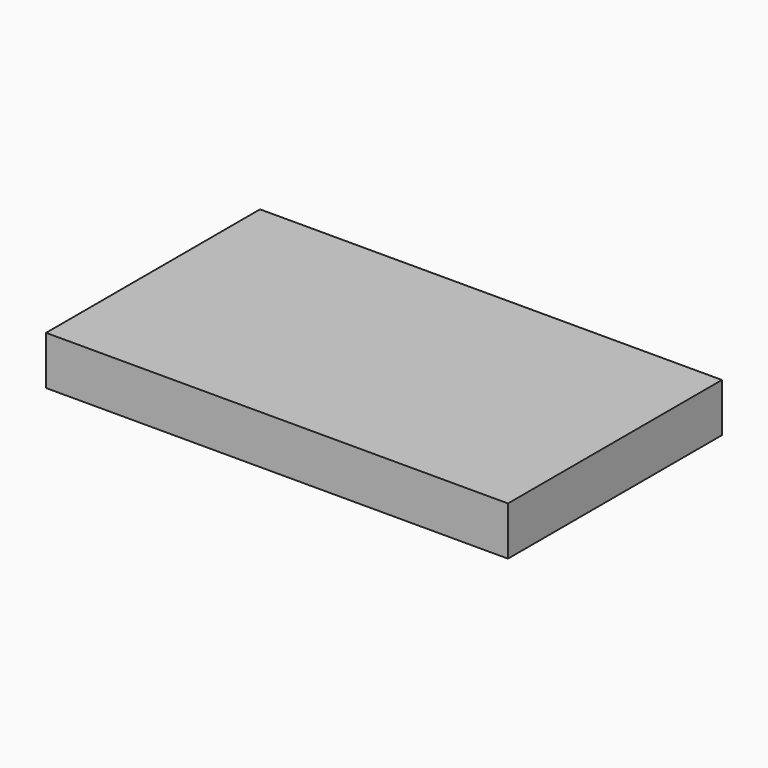
from build123d import *

# Parameters (mm, degrees)
BOX_W        = 51
BOX_H        = 10.2
BOX_DEPTH    = 10
BOX001_W     = 51
BOX001_H     = 13.2
BOX001_DEPTH = 10
BOX002_W     = 57
BOX002_H     = 33
BOX002_DEPTH = 6


with BuildPart() as cube:
    # Box → Box (new body)
    with BuildSketch(Plane.XY.offset(-7)):
        with Locations((25.5, 5.1)):
            Rectangle(BOX_W, BOX_H)
    extrude(amount=BOX_DEPTH)


with BuildPart() as fusion:
    # Box001 → Box001 (new body)
    with BuildSketch(Plane(origin=(0, -17.2, -7), x_dir=(1, 0, 0), z_dir=(0, 0, 1))):
        with Locations((25.5, 6.6)):
            Rectangle(BOX001_W, BOX001_H)
    extrude(amount=BOX001_DEPTH)

    # Fusion: union Cube
    add(cube.part)


with BuildPart() as cut:
    # Box002 → Box002 (new body)
    with BuildSketch(Plane(origin=(-3, -20, 0), x_dir=(1, 0, 0), z_dir=(0, 0, 1))):
        with Locations((28.5, 16.5)):
            Rectangle(BOX002_W, BOX002_H)
    extrude(amount=BOX002_DEPTH)

    # Cut: cut Fusion
    add(fusion.part, mode=Mode.SUBTRACT)


solid = cut.part
